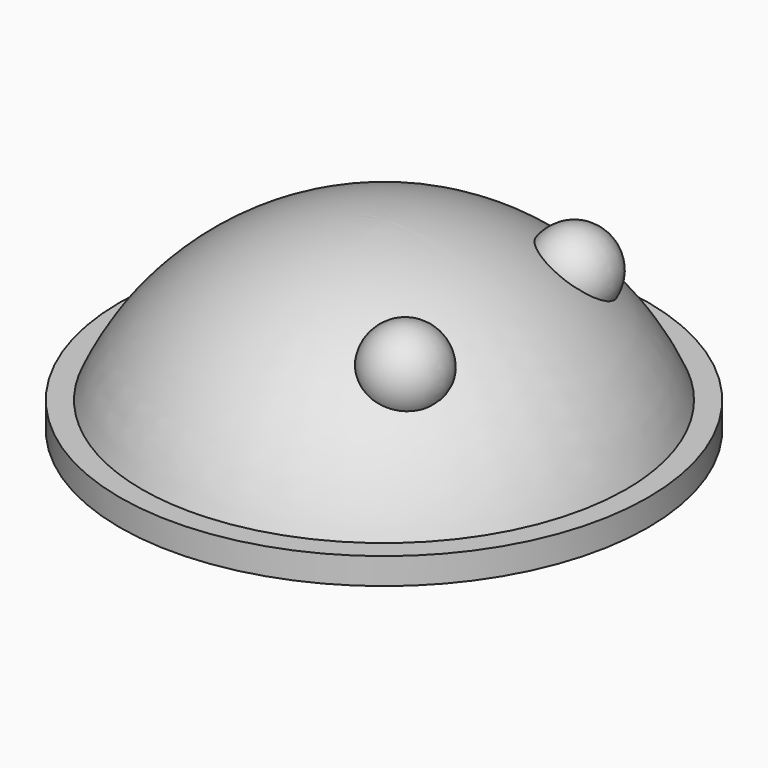
from build123d import *

# Parameters (mm, degrees)
CYLINDER_R     = 10
CYLINDER_DEPTH = 1


with BuildPart() as esfera:
    # Sphere → Sphere (revolve)
    with BuildSketch(Plane(origin=(0, 0, -3), x_dir=(1, 0, 0), z_dir=(0, -1, 0))):
        with BuildLine():
            ThreePointArc((9.396926, 3.420201), (5.735764, 8.19152), (0, 10))
            Line((0, 10), (0, 3.420201))
            Line((0, 3.420201), (9.396926, 3.420201))
        make_face()
    revolve(axis=Axis((0, 0, -3), (0, 0, 1)))


with BuildPart() as fusion:
    # Cylinder → Cylinder (new body)
    with BuildSketch(Plane.XY):
        Circle(CYLINDER_R)
    extrude(amount=CYLINDER_DEPTH)

    # Fusion: union Esfera
    add(esfera.part)


with BuildPart() as esfera001:
    # Sphere001 → Sphere001 (revolve)
    with BuildSketch(Plane(origin=(4, -4, 5), x_dir=(1, 0, 0), z_dir=(0, -1, 0))):
        with BuildLine():
            ThreePointArc((0, -1.5), (1.5, 0), (0, 1.5))
            Line((0, 1.5), (0, -1.5))
        make_face()
    revolve(axis=Axis((4, -4, 5), (0, 0, 1)))


with BuildPart() as fusion001:
    # Sphere002 → Sphere002 (revolve)
    with BuildSketch(Plane(origin=(4, 4, 5), x_dir=(1, 0, 0), z_dir=(0, -1, 0))):
        with BuildLine():
            ThreePointArc((0, -1.5), (1.5, 0), (0, 1.5))
            Line((0, 1.5), (0, -1.5))
        make_face()
    revolve(axis=Axis((4, 4, 5), (0, 0, 1)))

    # Fusion001: union Esfera001
    add(esfera001.part)


solid = Compound([fusion.part, fusion001.part])
